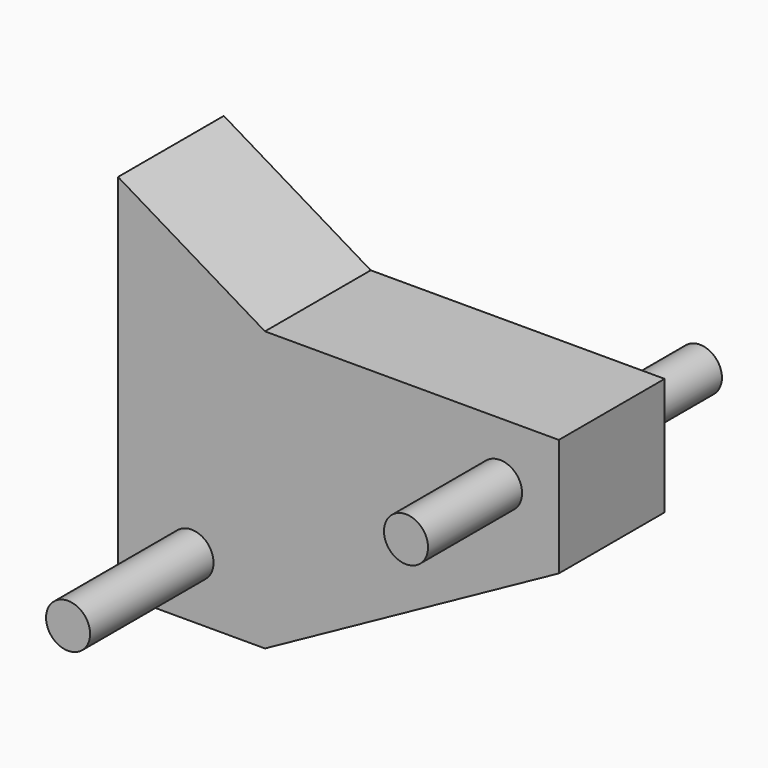
from build123d import *

# Parameters (mm, degrees)
F0_R     = 1.5
F1_DEPTH = 4.5
F2_DEPTH = 15
F3_DEPTH = 12.5


with BuildPart() as f1:
    # F0 (on Front) → F1 (new body, symmetric)
    with BuildSketch(Plane.XZ):
        Polygon((-0.399913, 11.307418), (-10.399913, 17.307418), (-10.399913, -7.692582), (-0.399913, -7.692582), (19.600087, 3.307418), (19.600087, 11.307418), align=None)
        with Locations((-5.399913, -3.692582)):
            Circle(F0_R, mode=Mode.SUBTRACT)
        with Locations((15.600087, 7.307418)):
            Circle(F0_R, mode=Mode.SUBTRACT)
    extrude(amount=F1_DEPTH, both=True)

    # F0 (on Front) → F2 (join, symmetric)
    with BuildSketch(Plane.XZ):
        with Locations((-5.399913, -3.692582)):
            Circle(F0_R)
    extrude(amount=F2_DEPTH, both=True)

    # F0 (on Front) → F3 (join, symmetric)
    with BuildSketch(Plane.XZ):
        with Locations((15.600087, 7.307418)):
            Circle(F0_R)
    extrude(amount=F3_DEPTH, both=True)


solid = f1.part
